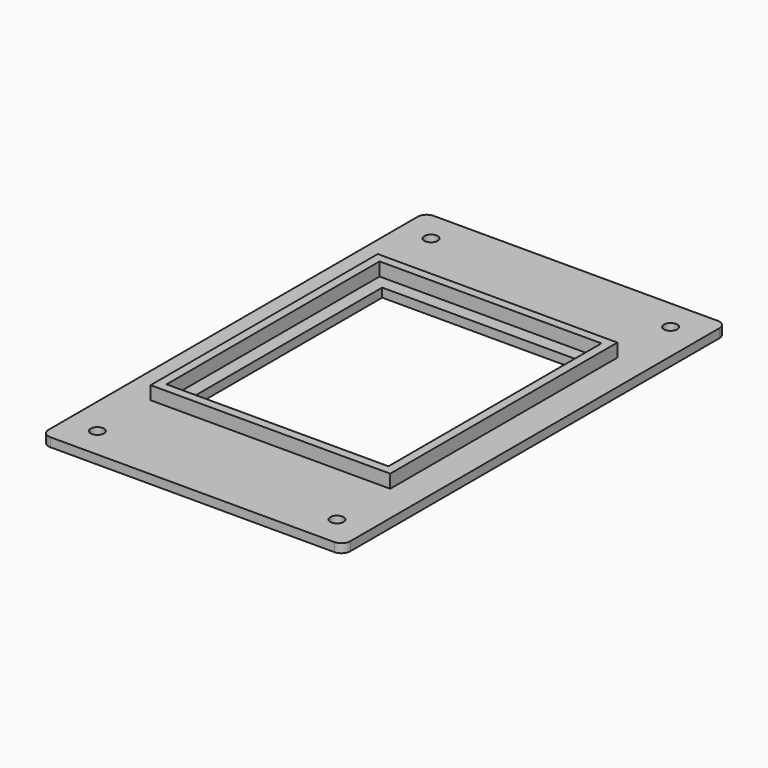
from build123d import *

# Parameters (mm, degrees)
SKETCH_W      = 68
SKETCH_H      = 108
PAD_DEPTH     = 2
SKETCH001_R   = 1.5
SKETCH001_W   = 44
SKETCH001_H   = 54
POCKET_DEPTH  = 3
FILLET_R      = 2
FILLET001_R   = 2
FILLET002_R   = 2
FILLET003_R   = 2
SKETCH002_W   = 54
SKETCH002_H   = 64
SKETCH002_W_2 = 50
SKETCH002_H_2 = 60
PAD001_DEPTH  = 3


with BuildPart() as part:
    # Sketch → Pad (new body)
    with BuildSketch(Plane.XY):
        with Locations((34, 54)):
            Rectangle(SKETCH_W, SKETCH_H)
    extrude(amount=PAD_DEPTH)

    # Sketch001 → Pocket (cut)
    with BuildSketch(Plane.XY.offset(2)):
        with Locations((7, 7)):
            Circle(SKETCH001_R)
        with Locations((61, 7)):
            Circle(SKETCH001_R)
        with Locations((7, 101)):
            Circle(SKETCH001_R)
        with Locations((61, 101)):
            Circle(SKETCH001_R)
        with Locations((34, 54)):
            Rectangle(SKETCH001_W, SKETCH001_H)
    extrude(amount=-POCKET_DEPTH, mode=Mode.SUBTRACT)

    # Fillet
    fillet_edges = [part.edges().sort_by_distance(p)[0] for p in [
        (0, 0, 1),
    ]]
    fillet(fillet_edges, radius=FILLET_R)

    # Fillet001
    fillet001_edges = [part.edges().sort_by_distance(p)[0] for p in [
        (68, 0, 1),
    ]]
    fillet(fillet001_edges, radius=FILLET001_R)

    # Fillet002
    fillet002_edges = [part.edges().sort_by_distance(p)[0] for p in [
        (68, 108, 1),
    ]]
    fillet(fillet002_edges, radius=FILLET002_R)

    # Fillet003
    fillet003_edges = [part.edges().sort_by_distance(p)[0] for p in [
        (0, 108, 1),
    ]]
    fillet(fillet003_edges, radius=FILLET003_R)

    # Sketch002 → Pad001 (new body)
    with BuildSketch(Plane.XY.offset(2)):
        with Locations((34, 54)):
            Rectangle(SKETCH002_W, SKETCH002_H)
        with Locations((34, 54)):
            Rectangle(SKETCH002_W_2, SKETCH002_H_2, mode=Mode.SUBTRACT)
    extrude(amount=PAD001_DEPTH)


solid = part.part
